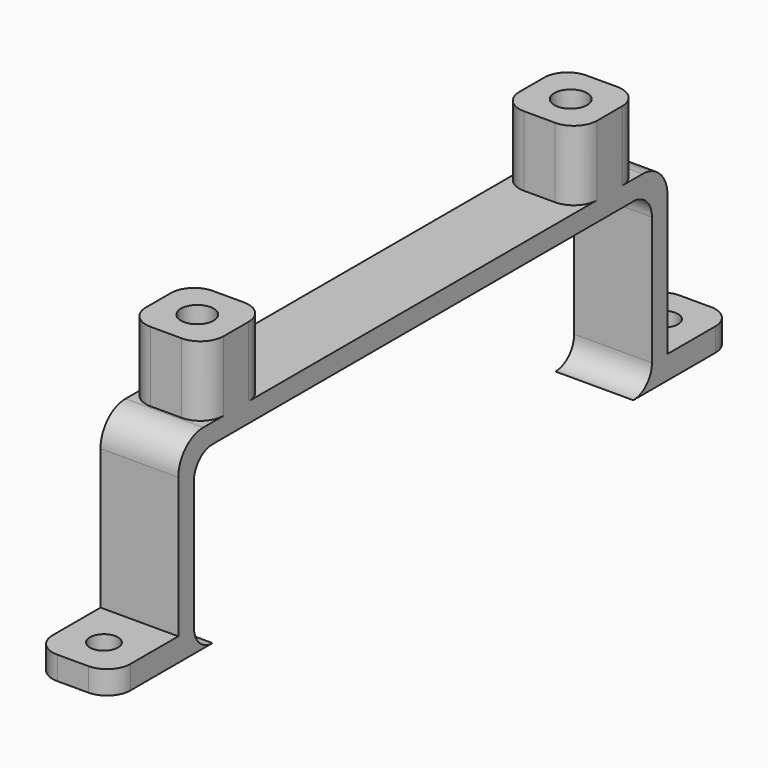
from build123d import *

# Parameters (mm, degrees)
BOX_W             = 141
BOX_H             = 73.6
BOX_DEPTH         = 22.5
FILLET_R          = 3
CYLINDER002_R     = 1.8
CYLINDER002_DEPTH = 10
BOX006_W          = 10
BOX006_H          = 78.6
BOX006_DEPTH      = 25
FILLET007_R       = 4
CYLINDER001_R     = 2.1
CYLINDER001_DEPTH = 10
BOX003_W          = 10
BOX003_H          = 10
BOX003_DEPTH      = 9
FILLET003_R       = 3
BOX007_W          = 10
BOX007_H          = 100
BOX007_DEPTH      = 3
FILLET006_R       = 3


with BuildPart() as battery_fillet:
    # Box → Box (new body)
    with BuildSketch(Plane(origin=(2, 0, 0), x_dir=(1, 0, 0), z_dir=(0, 0, 1))):
        with Locations((70.5, 36.8)):
            Rectangle(BOX_W, BOX_H)
    extrude(amount=BOX_DEPTH)

    # Fillet
    fillet_edges = [battery_fillet.edges().sort_by_distance(p)[0] for p in [
        (72.5, 0, 0),
        (72.5, 0, 22.5),
        (72.5, 73.6, 0),
        (72.5, 73.6, 22.5),
    ]]
    fillet(fillet_edges, radius=FILLET_R)


with BuildPart() as battery_fillet_1:
    # Fillet placement: moved
    add(battery_fillet.part.moved(Location((0, -36.8, 0))))


with BuildPart() as bolt_hole001:
    # Cylinder002 → Cylinder002 (new body)
    with BuildSketch(Plane(origin=(5, 45, 0), x_dir=(1, 0, 0), z_dir=(0, 0, 1))):
        Circle(CYLINDER002_R)
    extrude(amount=CYLINDER002_DEPTH)


with BuildPart() as bolt_hole_fusion001:
    # Part__Mirroring002: instance of bolt hole001
    add(bolt_hole001.part.mirror(Plane(origin=(0, 0, 0), x_dir=(1, 0, 0), z_dir=(0, 1, 0))))

    # Fusion002: union bolt hole001
    add(bolt_hole001.part)


with BuildPart() as back_wall_fillet001:
    # Box006 → Box006 (new body)
    with BuildSketch(Plane(origin=(0, -39.3, 0), x_dir=(1, 0, 0), z_dir=(0, 0, 1))):
        with Locations((5, 39.3)):
            Rectangle(BOX006_W, BOX006_H)
    extrude(amount=BOX006_DEPTH)

    # Fillet007
    fillet007_edges = [back_wall_fillet001.edges().sort_by_distance(p)[0] for p in [
        (5, -39.3, 25),
        (5, 39.3, 25),
    ]]
    fillet(fillet007_edges, radius=FILLET007_R)


with BuildPart() as insert_hole:
    # Cylinder001 → Cylinder001 (new body)
    with BuildSketch(Plane(origin=(5, 0, 0), x_dir=(1, 0, 0), z_dir=(0, 0, 1))):
        Circle(CYLINDER001_R)
    extrude(amount=CYLINDER001_DEPTH)


with BuildPart() as top_insert_box_cut:
    # Box003 → Box003 (new body)
    with BuildSketch(Plane(origin=(0, -5, 0), x_dir=(1, 0, 0), z_dir=(0, 0, 1))):
        with Locations((5, 5)):
            Rectangle(BOX003_W, BOX003_H)
    extrude(amount=BOX003_DEPTH)

    # Fillet003
    fillet003_edges = [top_insert_box_cut.edges().sort_by_distance(p)[0] for p in [
        (0, -5, 4.5),
        (0, 5, 4.5),
        (10, -5, 4.5),
        (10, 5, 4.5),
    ]]
    fillet(fillet003_edges, radius=FILLET003_R)

    # Cut: cut insert hole
    add(insert_hole.part, mode=Mode.SUBTRACT)


with BuildPart() as top_insert_box_cut_1:
    # Cut placement: moved
    add(top_insert_box_cut.part.moved(Location((0, 30, 25))))


with BuildPart() as part_mirroring001:
    # Part__Mirroring001: instance of top insert box cut
    add(top_insert_box_cut_1.part.mirror(Plane(origin=(0, 0, 0), x_dir=(1, 0, 0), z_dir=(0, 1, 0))))


with BuildPart() as battery_frame:
    # Box007 → Box007 (new body)
    with BuildSketch(Plane(origin=(0, -50, 0), x_dir=(1, 0, 0), z_dir=(0, 0, 1))):
        with Locations((5, 50)):
            Rectangle(BOX007_W, BOX007_H)
    extrude(amount=BOX007_DEPTH)

    # Fillet006
    fillet006_edges = [battery_frame.edges().sort_by_distance(p)[0] for p in [
        (0, -50, 1.5),
        (0, 50, 1.5),
        (10, -50, 1.5),
        (10, 50, 1.5),
    ]]
    fillet(fillet006_edges, radius=FILLET006_R)

    # Fusion003: union back wall fillet001, top insert box cut, Part__Mirroring001
    add(back_wall_fillet001.part)
    add(top_insert_box_cut_1.part)
    add(part_mirroring001.part)

    # Cut005: cut bolt hole fusion001
    add(bolt_hole_fusion001.part, mode=Mode.SUBTRACT)


with BuildPart() as battery_frame_1:
    # Cut005 placement: moved
    add(battery_frame.part.moved(Location((100, 0, 0))))

    # Cut006: cut battery fillet
    add(battery_fillet_1.part, mode=Mode.SUBTRACT)


solid = battery_frame_1.part
